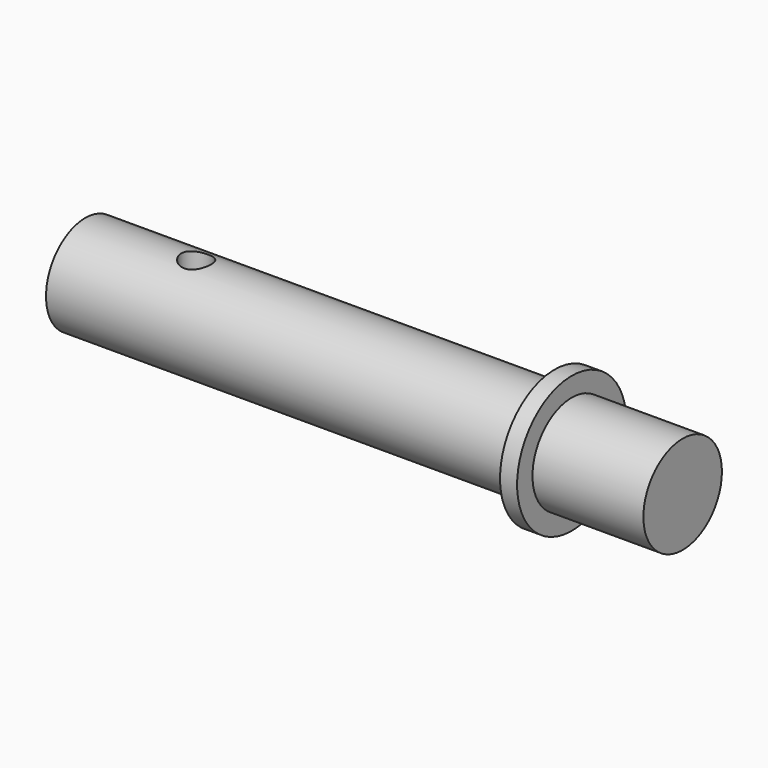
from build123d import *

# Parameters (mm, degrees)
F0_R     = 5.75
F1_DEPTH = 70
F4_DEPTH = 25
F6_R     = 8
F7_DEPTH = 2


with BuildPart() as f1:
    # F0 (on Right) → F1 (new body)
    with BuildSketch(Plane.YZ):
        Circle(F0_R)
    extrude(amount=F1_DEPTH)

    # F3 (on offset) → F4 (cut)
    with BuildSketch(Plane.XY.offset(6.8)):
        with BuildLine():
            Line((11.25, 0), (13, 0))
            Line((13, 0), (14.75, 0))
            ThreePointArc((14.75, 0), (13, 1.75), (11.25, 0))
        make_face()
        with BuildLine():
            Line((14.75, 0), (13, 0))
            Line((13, 0), (11.25, 0))
            ThreePointArc((11.25, 0), (13, -1.75), (14.75, 0))
        make_face()
    extrude(amount=-F4_DEPTH, mode=Mode.SUBTRACT)

    # F6 (on offset) → F7 (join)
    with BuildSketch(Plane.YZ.offset(55)):
        Circle(F6_R)
    extrude(amount=F7_DEPTH)


solid = f1.part
